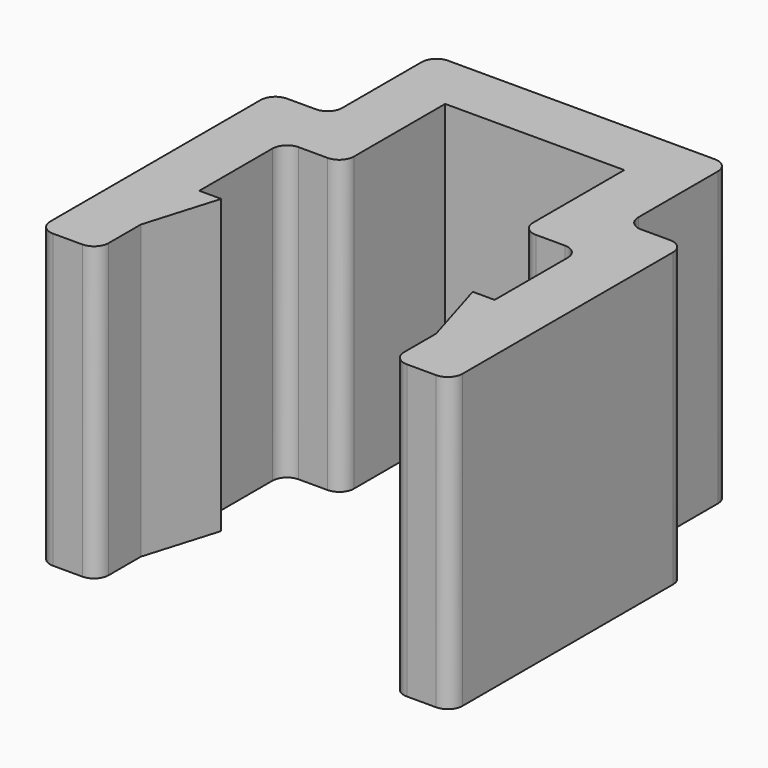
from build123d import *

# Parameters (mm, degrees)
F0_DEPTH = 20
F4_R     = 1
F2_DEPTH = 20


with BuildPart() as f0:
    # F3 (on Top) → F0 (new body)
    with BuildSketch(Plane.XY):
        Polygon((0, 20), (0, 0), (4, 0), (4, 16), (7.975, 16), (7.975, 24.8), (20.225, 24.8), (20.225, 16), (24.2, 16), (24.2, 0), (28.2, 0), (28.2, 20), (24.225, 20), (24.225, 28.8), (3.975, 28.8), (3.975, 20), align=None)
    extrude(amount=F0_DEPTH)

    # F4
    f4_edges = [f0.edges().sort_by_distance(p)[0] for p in [
        (4, 16, 10),
        (24.2, 16, 10),
        (7.975, 16, 10),
        (20.225, 16, 10),
        (0, 0, 10),
        (4, 0, 10),
        (24.2, 0, 10),
        (28.2, 0, 10),
        (0, 20, 10),
        (3.975, 28.8, 10),
        (3.975, 20, 10),
        (24.225, 28.8, 10),
        (24.225, 20, 10),
        (28.2, 20, 10),
    ]]
    fillet(f4_edges, radius=F4_R)

    # F1 (on face) → F2 (join)
    with BuildSketch(Plane.XY.offset(20)):
        Polygon((5.5, 8.75), (4, 8.75), (4, 3.75), align=None)
        Polygon((24.2, 3.75), (24.2, 8.75), (22.7, 8.75), align=None)
    extrude(amount=-F2_DEPTH)


solid = f0.part
